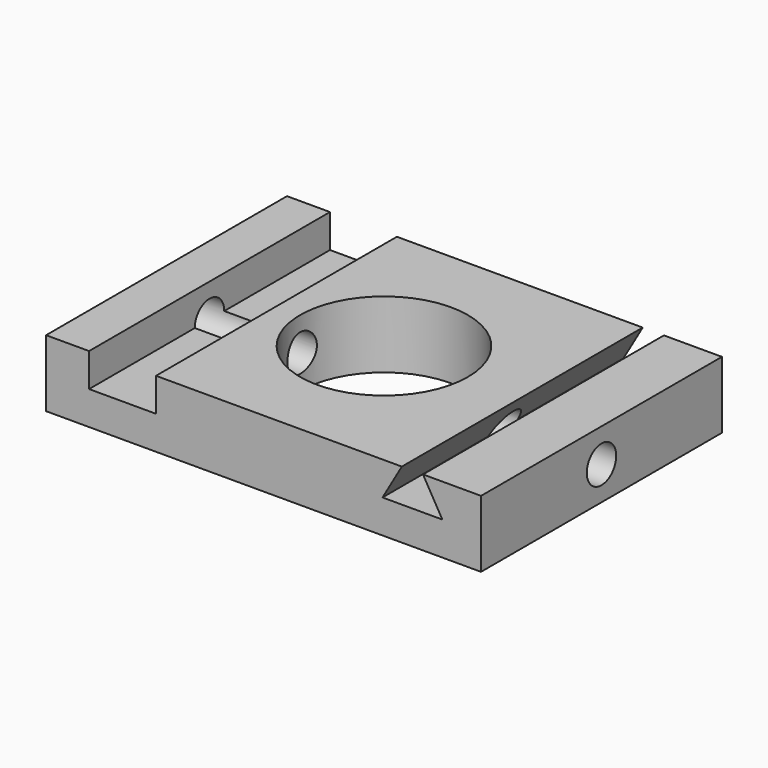
from build123d import *

# Parameters (mm, degrees)
F0_W     = 130
F0_H     = 90
F1_DEPTH = 20
F2_W     = 20
F2_H     = 90
F3_DEPTH = 10
F4_R     = 25.06944
F5_DEPTH = 20.001
F6_R     = 5.5
F7_DEPTH = 130.001
F9_DEPTH = 90.001


with BuildPart() as f1:
    # F0 (on Top) → F1 (new body)
    with BuildSketch(Plane.XY):
        Rectangle(F0_W, F0_H)
    extrude(amount=F1_DEPTH)

    # F2 (on face) → F3 (cut)
    with BuildSketch(Plane.XY.offset(20)):
        with Locations((-42.149333, 0)):
            Rectangle(F2_W, F2_H)
    extrude(amount=-F3_DEPTH, mode=Mode.SUBTRACT)

    # F4 (on face) → F5 (cut, through all)
    with BuildSketch(Plane.XY.offset(20)):
        Circle(F4_R)
    extrude(amount=-F5_DEPTH, mode=Mode.SUBTRACT)

    # F6 (on face) → F7 (cut, through all)
    with BuildSketch(Plane.YZ.offset(65)):
        with Locations((0, 10)):
            Circle(F6_R)
    extrude(amount=-F7_DEPTH, mode=Mode.SUBTRACT)

    # F8 (on face) → F9 (cut, through all)
    with BuildSketch(Plane.XZ.offset(45)):
        Polygon((47.662321, 20), (41.323712, 20), (35.550209, 10), (53.435824, 10), align=None)
    extrude(amount=-F9_DEPTH, mode=Mode.SUBTRACT)


solid = f1.part
